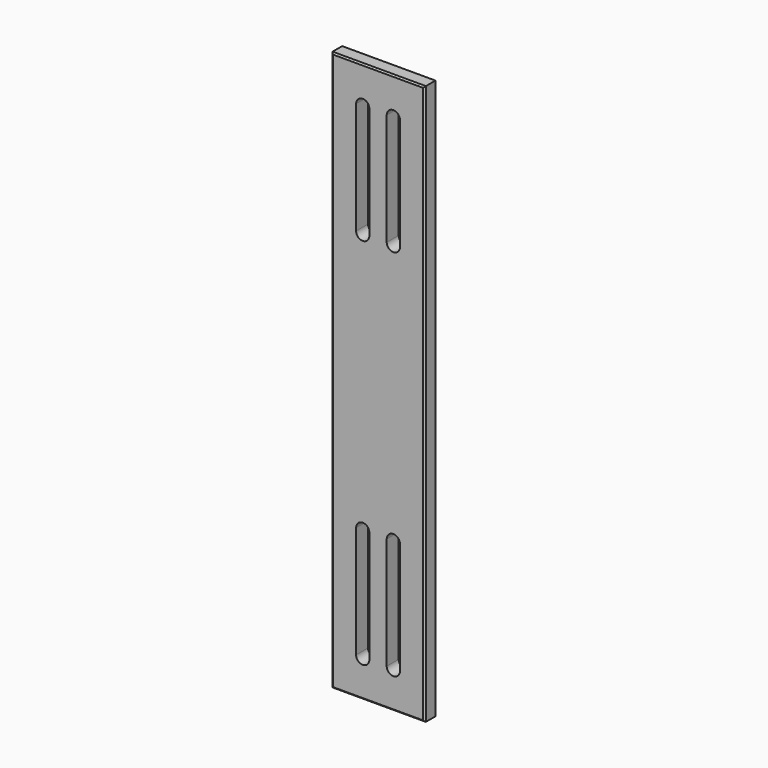
from build123d import *

# Parameters (mm, degrees)
F0_W     = 63.5
F0_H     = 381
F1_DEPTH = 10.16
F2_W     = 9
F2_H     = 76.2
F3_DEPTH = 10.161
F4_SIZE  = 1


with BuildPart() as f1:
    # F0 (on Front) → F1 (new body)
    with BuildSketch(Plane.XZ):
        Rectangle(F0_W, F0_H)
    extrude(amount=F1_DEPTH)

    # F2 (on face) → F3 (cut, through all)
    with BuildSketch(Plane(origin=(0, 0, 0), x_dir=(-1, 0, 0), z_dir=(0, 1, 0))):
        with Locations((-10.414, -127)):
            Rectangle(F2_W, F2_H)
        with Locations((-10.414, 127)):
            Rectangle(F2_W, F2_H)
        with Locations((10.414, 127)):
            Rectangle(F2_W, F2_H)
        with BuildLine():
            Line((5.914, 165.1), (14.914, 165.1))
            ThreePointArc((14.914, 165.1), (10.414, 169.6), (5.914, 165.1))
        make_face()
        with BuildLine():
            ThreePointArc((-5.914, 165.1), (-10.414, 169.6), (-14.914, 165.1))
            Line((-14.914, 165.1), (-5.914, 165.1))
        make_face()
        with BuildLine():
            Line((-5.914, 88.9), (-14.914, 88.9))
            ThreePointArc((-14.914, 88.9), (-10.414, 84.4), (-5.914, 88.9))
        make_face()
        with BuildLine():
            ThreePointArc((5.914, 88.9), (10.414, 84.4), (14.914, 88.9))
            Line((14.914, 88.9), (5.914, 88.9))
        make_face()
        with BuildLine():
            Line((-14.914, -88.9), (-5.914, -88.9))
            ThreePointArc((-5.914, -88.9), (-10.414, -84.4), (-14.914, -88.9))
        make_face()
        with BuildLine():
            Line((5.914, -88.9), (14.914, -88.9))
            ThreePointArc((14.914, -88.9), (10.414, -84.4), (5.914, -88.9))
        make_face()
        with Locations((10.414, -127)):
            Rectangle(F2_W, F2_H)
        with BuildLine():
            ThreePointArc((5.914, -165.1), (10.414, -169.6), (14.914, -165.1))
            Line((14.914, -165.1), (5.914, -165.1))
        make_face()
        with BuildLine():
            ThreePointArc((-14.914, -165.1), (-10.414, -169.6), (-5.914, -165.1))
            Line((-5.914, -165.1), (-14.914, -165.1))
        make_face()
    extrude(amount=-F3_DEPTH, mode=Mode.SUBTRACT)

    # F4
    f4_edges = [f1.edges().sort_by_distance(p)[0] for p in [
        (-31.75, -10.16, 0),
        (31.75, -10.16, 0),
        (0, -10.16, 190.5),
        (0, -10.16, -190.5),
        (0, 0, 190.5),
        (-31.75, 0, 0),
        (0, 0, -190.5),
        (31.75, 0, 0),
    ]]
    chamfer(f4_edges, length=F4_SIZE)


solid = f1.part
